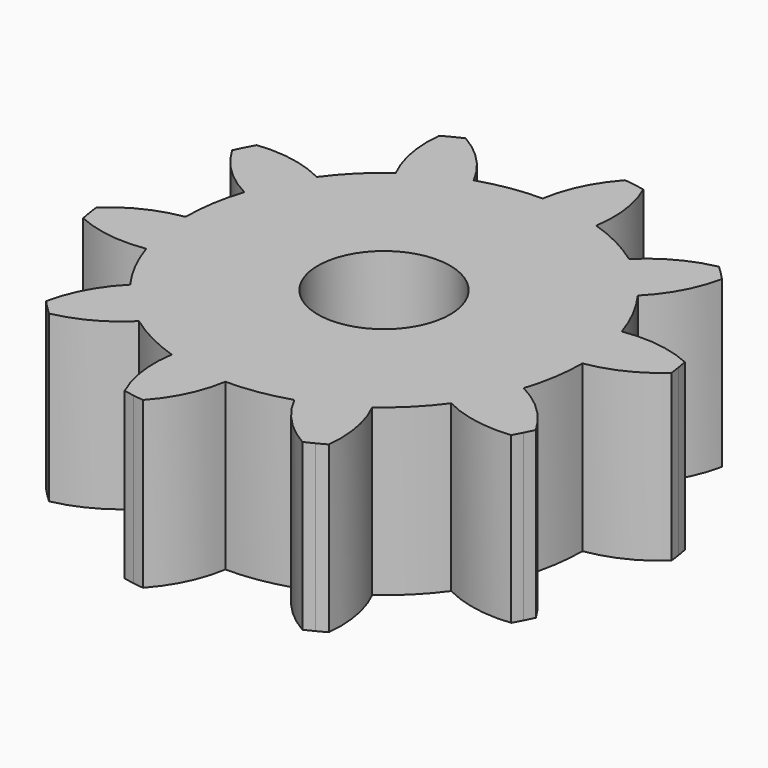
from build123d import *

# Parameters (mm, degrees)
F1_DEPTH = 2.5
F2_R     = 1
F3_DEPTH = 2.501


with BuildPart() as f1:
    # F0 (on Top) → F1 (new body)
    with BuildSketch(Plane.XY):
        with BuildLine():
            ThreePointArc((2.85317, 0.927051), (2.67302, 1.361971), (2.427051, 1.763356))
            ThreePointArc((2.427051, 1.763356), (2.752898, 2.200719), (2.938951, 2.713405))
            ThreePointArc((2.938951, 2.713405), (2.884263, 2.771467), (2.828427, 2.828427))
            ThreePointArc((2.828427, 2.828427), (2.771467, 2.884263), (2.713405, 2.938951))
            ThreePointArc((2.713405, 2.938951), (2.200719, 2.752898), (1.763356, 2.427051))
            ThreePointArc((1.763356, 2.427051), (1.361971, 2.67302), (0.927051, 2.85317))
            ThreePointArc((0.927051, 2.85317), (0.933592, 3.398532), (0.782762, 3.922663))
            ThreePointArc((0.782762, 3.922663), (0.70439, 3.937491), (0.625738, 3.950753))
            ThreePointArc((0.625738, 3.950753), (0.546837, 3.962445), (0.467718, 3.972561))
            ThreePointArc((0.467718, 3.972561), (0.162306, 3.520692), (0, 3))
            ThreePointArc((0, 3), (-0.469303, 2.963065), (-0.927051, 2.85317))
            ThreePointArc((-0.927051, 2.85317), (-1.242315, 3.298221), (-1.672415, 3.633597))
            ThreePointArc((-1.672415, 3.633597), (-1.744535, 3.599527), (-1.815962, 3.564026))
            ThreePointArc((-1.815962, 3.564026), (-1.886666, 3.527108), (-1.956621, 3.488787))
            ThreePointArc((-1.956621, 3.488787), (-1.938103, 2.9437), (-1.763356, 2.427051))
            ThreePointArc((-1.763356, 2.427051), (-2.12132, 2.12132), (-2.427051, 1.763356))
            ThreePointArc((-2.427051, 1.763356), (-2.9437, 1.938103), (-3.488787, 1.956621))
            ThreePointArc((-3.488787, 1.956621), (-3.527108, 1.886666), (-3.564026, 1.815962))
            ThreePointArc((-3.564026, 1.815962), (-3.599527, 1.744535), (-3.633597, 1.672415))
            ThreePointArc((-3.633597, 1.672415), (-3.298221, 1.242315), (-2.85317, 0.927051))
            ThreePointArc((-2.85317, 0.927051), (-2.963065, 0.469303), (-3, 0))
            ThreePointArc((-3, 0), (-3.520692, -0.162306), (-3.972561, -0.467718))
            ThreePointArc((-3.972561, -0.467718), (-3.962445, -0.546837), (-3.950753, -0.625738))
            ThreePointArc((-3.950753, -0.625738), (-3.937491, -0.70439), (-3.922663, -0.782762))
            ThreePointArc((-3.922663, -0.782762), (-3.398532, -0.933592), (-2.85317, -0.927051))
            ThreePointArc((-2.85317, -0.927051), (-2.67302, -1.361971), (-2.427051, -1.763356))
            ThreePointArc((-2.427051, -1.763356), (-2.752898, -2.200719), (-2.938951, -2.713405))
            ThreePointArc((-2.938951, -2.713405), (-2.884263, -2.771467), (-2.828427, -2.828427))
            ThreePointArc((-2.828427, -2.828427), (-2.771467, -2.884263), (-2.713405, -2.938951))
            ThreePointArc((-2.713405, -2.938951), (-2.200719, -2.752898), (-1.763356, -2.427051))
            ThreePointArc((-1.763356, -2.427051), (-1.361971, -2.67302), (-0.927051, -2.85317))
            ThreePointArc((-0.927051, -2.85317), (-0.933592, -3.398532), (-0.782762, -3.922663))
            ThreePointArc((-0.782762, -3.922663), (-0.70439, -3.937491), (-0.625738, -3.950753))
            ThreePointArc((-0.625738, -3.950753), (-0.546837, -3.962445), (-0.467718, -3.972561))
            ThreePointArc((-0.467718, -3.972561), (-0.162306, -3.520692), (0, -3))
            ThreePointArc((0, -3), (0.469303, -2.963065), (0.927051, -2.85317))
            ThreePointArc((0.927051, -2.85317), (1.242315, -3.298221), (1.672415, -3.633597))
            ThreePointArc((1.672415, -3.633597), (1.744535, -3.599527), (1.815962, -3.564026))
            ThreePointArc((1.815962, -3.564026), (1.886666, -3.527108), (1.956621, -3.488787))
            ThreePointArc((1.956621, -3.488787), (1.938103, -2.9437), (1.763356, -2.427051))
            ThreePointArc((1.763356, -2.427051), (2.12132, -2.12132), (2.427051, -1.763356))
            ThreePointArc((2.427051, -1.763356), (2.9437, -1.938103), (3.488787, -1.956621))
            ThreePointArc((3.488787, -1.956621), (3.527108, -1.886666), (3.564026, -1.815962))
            ThreePointArc((3.564026, -1.815962), (3.599527, -1.744535), (3.633597, -1.672415))
            ThreePointArc((3.633597, -1.672415), (3.298221, -1.242315), (2.85317, -0.927051))
            ThreePointArc((2.85317, -0.927051), (2.963065, -0.469303), (3, 0))
            ThreePointArc((3, 0), (3.520692, 0.162306), (3.972561, 0.467718))
            ThreePointArc((3.972561, 0.467718), (3.962445, 0.546837), (3.950753, 0.625738))
            ThreePointArc((3.950753, 0.625738), (3.937491, 0.70439), (3.922663, 0.782762))
            ThreePointArc((3.922663, 0.782762), (3.398532, 0.933592), (2.85317, 0.927051))
        make_face()
    extrude(amount=F1_DEPTH)

    # F2 (on face) → F3 (cut, through all)
    with BuildSketch(Plane.XY.offset(2.5)):
        Circle(F2_R)
    extrude(amount=-F3_DEPTH, mode=Mode.SUBTRACT)


solid = f1.part
